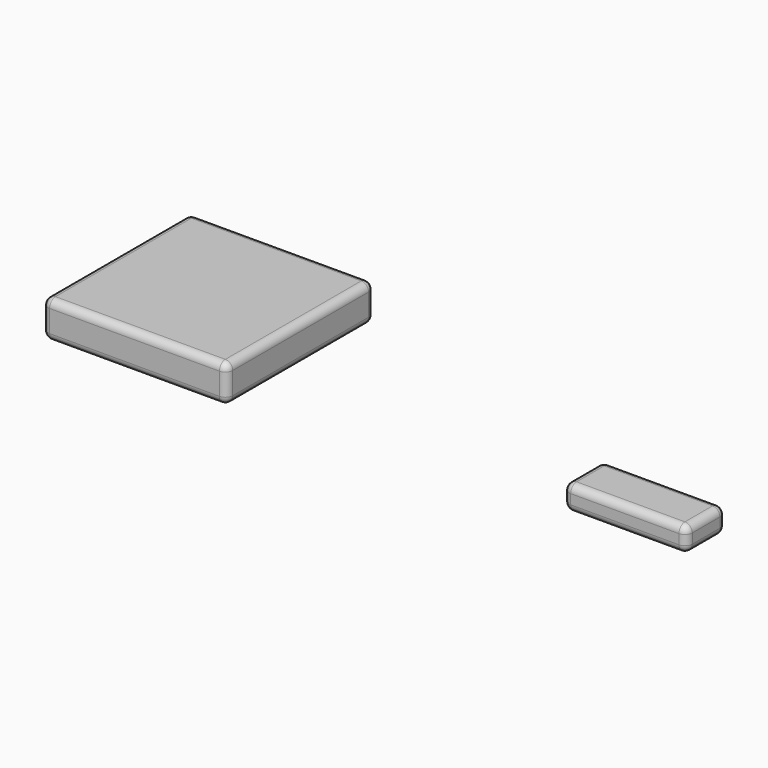
from build123d import *

# Parameters (mm, degrees)
F0_W     = 15
F0_H     = 15
F1_DEPTH = 3
F0_W_2   = 10
F0_H_2   = 4
F2_DEPTH = 2
F3_R     = 0.6
F3_2_R   = 0.6


with BuildPart() as f1:
    # F0 (on Top) → F1 (new body)
    with BuildSketch(Plane.XY):
        with Locations((-43.021046, 15.497045)):
            Rectangle(F0_W, F0_H)
    extrude(amount=F1_DEPTH)

    # F3
    f3_edges = [f1.edges().sort_by_distance(p)[0] for p in [
        (-50.521046, 22.997045, 1.5),
        (-50.521046, 7.997045, 1.5),
        (-50.521046, 15.497045, 0),
        (-50.521046, 15.497045, 3),
        (-43.021046, 22.997045, 3),
        (-35.521046, 7.997045, 1.5),
        (-35.521046, 22.997045, 1.5),
        (-35.521046, 15.497045, 0),
        (-35.521046, 15.497045, 3),
        (-43.021046, 7.997045, 3),
        (-43.021046, 22.997045, 0),
        (-43.021046, 7.997045, 0),
    ]]
    fillet(f3_edges, radius=F3_R)


with BuildPart() as f2:
    # F0 (on Top) → F2 (new body)
    with BuildSketch(Plane.XY):
        with Locations((-5, 12.281917)):
            Rectangle(F0_W_2, F0_H_2)
    extrude(amount=F2_DEPTH)

    # F3#2
    f3_2_edges = [f2.edges().sort_by_distance(p)[0] for p in [
        (-5, 10.281917, 2),
        (0, 10.281917, 1),
        (0, 14.281917, 1),
        (0, 12.281917, 0),
        (0, 12.281917, 2),
        (-10, 14.281917, 1),
        (-10, 10.281917, 1),
        (-10, 12.281917, 0),
        (-10, 12.281917, 2),
        (-5, 14.281917, 2),
        (-5, 14.281917, 0),
        (-5, 10.281917, 0),
    ]]
    fillet(f3_2_edges, radius=F3_2_R)


solid = Compound([f1.part, f2.part])
